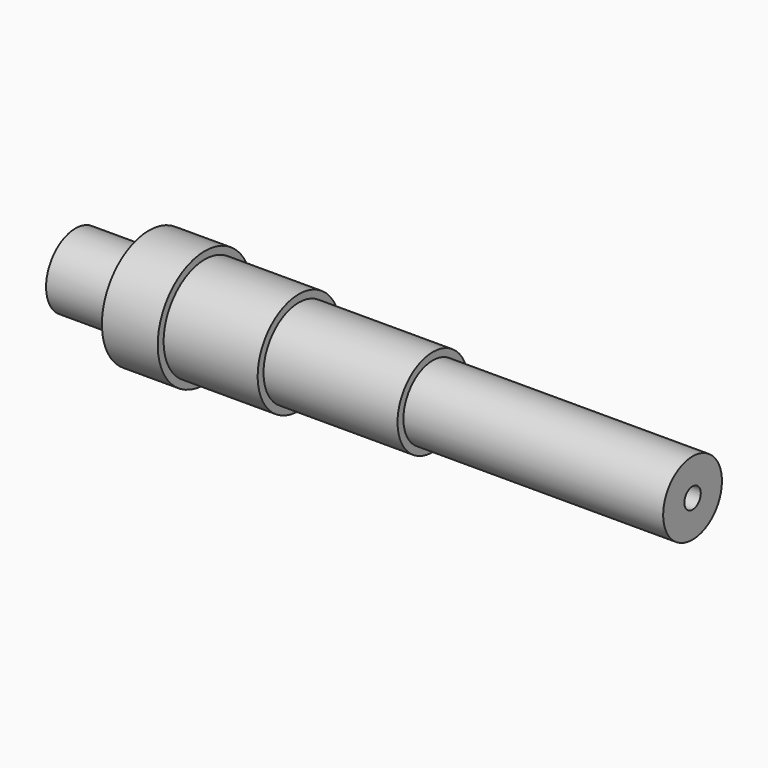
from build123d import *

# Parameters (mm, degrees)
F2_R     = 4
F3_DEPTH = 16
F4_R     = 3.5
F5_DEPTH = 10


with BuildPart() as f1:
    # F0 (on Front) → F1 (revolve)
    with BuildSketch(Plane.XZ):
        Polygon((0, 12.5), (0, 0), (210, 0), (210, 12.5), (121.6, 12.5), (121.6, 15), (76, 15), (76, 17.5), (44, 17.5), (44, 20), (25, 20), (25, 12.5), align=None)
    revolve(axis=Axis((106.720138, 0, 0), (1, 0, 0)))

    # F2 (on face) → F3 (cut)
    with BuildSketch(Plane(origin=(0, 0, 0), x_dir=(0, -1, 0), z_dir=(-1, 0, 0))):
        Circle(F2_R)
    extrude(amount=-F3_DEPTH, mode=Mode.SUBTRACT)

    # F4 (on face) → F5 (cut)
    with BuildSketch(Plane.YZ.offset(210)):
        Circle(F4_R)
    extrude(amount=-F5_DEPTH, mode=Mode.SUBTRACT)


solid = f1.part
